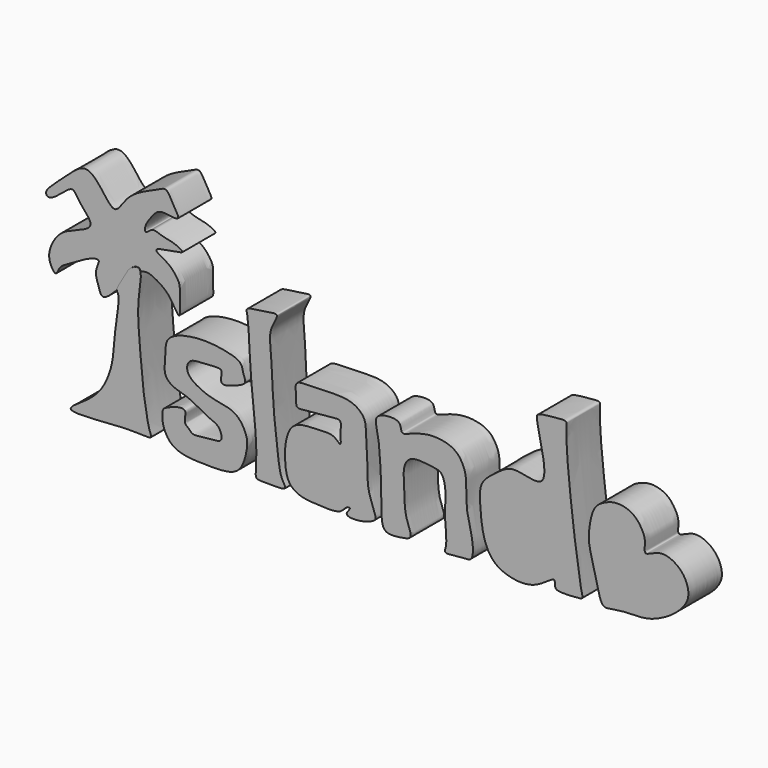
from build123d import *

# Parameters (mm, degrees)
F1_DEPTH = 7.00256
F3_DEPTH = 6.94536


with BuildPart() as f1:
    # F0 (on Front) → F1 (new body)
    with BuildSketch(Plane.XZ):
        with BuildLine():
            add(Edge.make_bspline(
                [(-36.1517251988, 19.9527548382), (-35.6897076713, 20.3593368605), (-33.8703145062, 21.1885151566), (-35.0607675175, 15.425998528), (-34.7363081171, 11.1344240942), (-34.2041343535, 4.2893139664), (-33.7248098844, 0.7509508697), (-33.0751908833, -2.8130985581), (-32.314117583, -4.2193821762), (-36.3887935859, -3.4614617292), (-48.8265701207, -5.1280409517), (-43.3805494244, -1.8917147228), (-40.8559296989, 0.3585023376), (-39.2863859033, 4.1539288786), (-38.9402390536, 7.0009509587), (-38.6831407742, 10.8140669104), (-37.8381283501, 15.4349002535), (-38.75188743, 15.9792794621), (-37.2077605506, 18.1748205384), (-36.711965086, 19.4597357366), (-36.1517251988, 19.9527548382)],
                knots=[0, 0, 0, 0, 0.0371555742, 0.1000640054, 0.167887502, 0.2450829345, 0.3042500264, 0.3608843273, 0.388652327, 0.4465002367, 0.5399913459, 0.5916353721, 0.6514595482, 0.7104646309, 0.7608988487, 0.8220598288, 0.8848688944, 0.9092804781, 0.9549453571, 1, 1, 1, 1], degree=3))
        make_face()
    extrude(amount=F1_DEPTH)

    # F2 (on Front) → F3 (join)
    with BuildSketch(Plane.XZ):
        with BuildLine():
            add(Edge.make_bspline(
                [(-34.517776221, 20.0302638113), (-35.0435278721, 19.9496718123), (-36.5258557483, 20.0116647352), (-36.9177050247, 17.5537521941), (-38.2047499664, 16.2372929918), (-40.9492917815, 13.3961830106), (-41.5180956547, 15.6660045168), (-42.3205207901, 17.6327070561), (-40.8998277748, 19.8222393062), (-43.6461751967, 19.0020267989), (-46.109935297, 17.3726617898), (-48.1760350715, 16.4132959015), (-48.5892537044, 14.4559136674), (-50.0274079728, 16.7083085967), (-49.6015405696, 18.9983798375), (-47.9246795993, 21.593510193), (-45.1923089738, 22.567237218), (-42.2201646752, 23.8286074278), (-43.6896780017, 25.768682739), (-45.0204219133, 27.2082097745), (-45.8176894798, 28.8972102646), (-47.6844490438, 27.1601857388), (-49.8449216585, 25.5269753106), (-50.5531094967, 26.5724037583), (-49.1902543319, 28.0147068318), (-46.6029363538, 30.3201710375), (-43.4798261276, 33.1654839063), (-40.7122640602, 29.6068682539), (-38.7283107025, 26.8743425271), (-37.1175917219, 29.8878601544), (-34.7294264415, 31.7160341732), (-31.6415845352, 32.9354843979), (-30.0941918664, 33.8484303125), (-29.1690215474, 31.6081478318), (-27.4306467647, 29.2997682661), (-30.6463370981, 30.0867014118), (-31.8710225745, 29.6762420922), (-32.8744846882, 28.4185253733), (-33.8361248093, 26.9975982429), (-33.7101044155, 25.6988754987), (-32.5218577907, 27.1662269803), (-30.9771057387, 26.2900837149), (-28.8925167329, 26.1166611972), (-27.0235854451, 25.0286003193), (-28.5729498893, 24.9421824814), (-30.5204615397, 24.388554303), (-31.7194527001, 24.3566361468), (-32.0428712761, 23.7067244003), (-29.8252439715, 22.7937374242), (-28.7372025862, 21.5196224564), (-27.8226492161, 20.2343686043), (-27.9989477321, 18.2621060029), (-27.743957272, 14.898938831), (-28.8638425178, 16.5217260238), (-29.7083513191, 18.1219963291), (-31.3803984714, 19.4267434756), (-33.3665638961, 20.4256015254), (-34.0848991825, 20.0966191444), (-34.517776221, 20.0302638113)],
                knots=[0, 0, 0, 0, 0.0167661578, 0.0350146562, 0.0538878036, 0.0761931881, 0.0917104311, 0.111271447, 0.1274832584, 0.1447321101, 0.1681461375, 0.1874160264, 0.2012288375, 0.2181069179, 0.2380453691, 0.2597985426, 0.282285694, 0.3026709613, 0.3197262714, 0.3387527247, 0.353368684, 0.3722253027, 0.392565876, 0.4029309434, 0.4195781096, 0.4446155084, 0.4681274889, 0.4934430687, 0.5139426523, 0.533942418, 0.557087266, 0.5805855671, 0.5952439833, 0.6143727384, 0.6319249088, 0.6510979069, 0.6660636588, 0.6819865114, 0.6992870307, 0.7099936338, 0.72409226, 0.740177554, 0.7598880944, 0.7751433354, 0.7872379127, 0.8066063098, 0.8201323724, 0.8278520883, 0.8464965948, 0.8638142385, 0.8789107021, 0.8980931414, 0.9179979027, 0.9309092729, 0.948983619, 0.9678170197, 0.9861956026, 1, 1, 1, 1], degree=3))
        make_face()
    extrude(amount=F3_DEPTH)


with BuildPart() as f1b:
    # F0 (on Front) → F1, piece 2 (new body)
    with BuildSketch(Plane.XZ):
        with BuildLine():
            add(Edge.make_bspline(
                [(-26.3890568167, -0.463387667), (-26.5798991378, -0.2944835375), (-27.0880622653, -0.079326431), (-27.0858652986, 0.9128124248), (-26.7633932354, 2.1735413059), (-28.3391129297, 2.2078374262), (-30.2296858977, 1.3713509222), (-30.8293104708, 0.9900299154), (-30.9351845711, -1.133588519), (-29.6236158953, -3.8743861817), (-26.8939060521, -4.8065411418), (-23.1613573432, -4.8750494371), (-19.258587347, -4.8534588129), (-17.3753757121, -3.3756469893), (-16.6370941419, -0.4170186309), (-16.5210335456, 1.5278543546), (-18.2736264719, 4.6636685989), (-21.5966253676, 5.0135071255), (-24.2906625978, 5.7728997126), (-27.0297006416, 7.5164790199), (-26.431480956, 9.9350064663), (-23.9334296312, 9.8736106296), (-21.3256794846, 10.1962223984), (-20.7493214149, 9.7498963354), (-21.4048677517, 7.3895204759), (-18.7811944267, 8.3527209558), (-16.5319301048, 9.1753140066), (-17.4147659745, 10.6059708206), (-17.44075539, 12.2269014699), (-20.2241829698, 13.0320422633), (-23.7743858921, 13.4928763023), (-27.7087912086, 13.0117537954), (-30.3640394159, 11.6086787433), (-30.2084613563, 9.0722310572), (-30.7569407138, 5.9936928037), (-28.6903366217, 4.5740446133), (-26.2619108503, 4.185688864), (-23.5080155182, 2.2711075921), (-21.273506284, 1.7117271819), (-20.815093773, 0.0137660443), (-21.1642516828, -0.8534879511), (-23.6376828982, -0.7404582743), (-25.7908655577, -1.3276189837), (-26.1817727682, -0.6468434726), (-26.3890568167, -0.463387667)],
                knots=[0, 0, 0, 0, 0.0140139271, 0.0299000515, 0.0465262341, 0.0646606681, 0.0886707817, 0.1016724983, 0.1243731152, 0.1525225706, 0.1794659913, 0.21178913, 0.243946201, 0.2682502839, 0.2961577554, 0.3194051409, 0.3487440375, 0.377976075, 0.4063095162, 0.4343289061, 0.4558550322, 0.4811669168, 0.5077015788, 0.5196245168, 0.5405996068, 0.5642211273, 0.5882993871, 0.606609929, 0.6262425574, 0.6523464281, 0.6843468695, 0.7173780368, 0.7438469618, 0.7690707747, 0.7972078384, 0.8210769864, 0.8470669527, 0.8772429939, 0.9016508871, 0.9216837731, 0.9353103257, 0.9607117819, 0.9847787245, 1, 1, 1, 1], degree=3))
        make_face()
    extrude(amount=F1_DEPTH)


with BuildPart() as f1c:
    # F0 (on Front) → F1, piece 3 (new body)
    with BuildSketch(Plane.XZ):
        with BuildLine():
            add(Edge.make_bspline(
                [(-11.6750150919, 21.0061557591), (-11.5272935923, 20.7009123593), (-13.162453115, 18.5961963562), (-12.5030827646, 14.5731602186), (-12.3601063727, 7.3320394966), (-11.5741090964, 1.6222786359), (-11.1817770176, -2.6628967878), (-9.8123150739, -4.1909337286), (-11.8942743308, -4.2738467977), (-14.6308324394, -4.3025744451), (-15.4049156617, -3.9825128168), (-14.7777780185, -0.0765790415), (-15.9575040529, 8.8023299459), (-16.2862424554, 15.1290079542), (-16.4819544503, 19.3139105522), (-17.0073561431, 20.620469394), (-13.7458825732, 20.7857232983), (-11.8123974807, 21.2900350017), (-11.6750150919, 21.0061557591)],
                knots=[0, 0, 0, 0, 0.0520846431, 0.1225217107, 0.2151053386, 0.2998469742, 0.3705040587, 0.4090885567, 0.4512149759, 0.5098187822, 0.5350310948, 0.5976802701, 0.7027754783, 0.7923920038, 0.8605742745, 0.8918973939, 0.9515607904, 1, 1, 1, 1], degree=3))
        make_face()
    extrude(amount=F1_DEPTH)


with BuildPart() as f1d:
    # F0 (on Front) → F1, piece 4 (new body)
    with BuildSketch(Plane.XZ):
        with BuildLine():
            add(Edge.make_bspline(
                [(-8.3898045123, 12.0296664536), (-8.6875525617, 11.6276731574), (-8.2748729778, 10.0755227999), (-8.6500740759, 8.2317413191), (-6.5052586315, 8.7351508389), (-3.4202336676, 8.747265068), (-0.6604912576, 9.3451217333), (-1.1906493937, 7.3124647248), (-0.7771319081, 4.848625774), (-2.1476051762, 6.629840905), (-4.5066657941, 6.3784435288), (-6.9211921801, 6.4080086128), (-9.337562509, 5.760163528), (-10.3168796178, 2.8866632836), (-10.3656774234, 0.072892853), (-9.9480334601, -3.2554877153), (-7.4210654019, -4.57632932), (-4.5846990768, -4.6555826449), (-0.9197556332, -4.8418890102), (-0.2429872233, -3.4005548837), (0.9448869714, -3.2503806018), (-0.5575771824, -4.6172388257), (1.3617412981, -4.9458268691), (3.5193790507, -4.5154929327), (4.79408193, -3.8708835645), (4.9134620737, -3.1414549628), (3.3566005683, 0.2081523611), (3.5631294351, 3.7345391656), (3.1519626982, 8.1696046553), (3.2583471457, 10.6499881457), (0.9727631039, 12.55451615), (-2.6459412718, 12.5901754504), (-6.1035681298, 12.3362674851), (-8.0861963291, 12.4395715882), (-8.3898045123, 12.0296664536)],
                knots=[0, 0, 0, 0, 0.029614969, 0.0548155909, 0.0811460112, 0.1205735564, 0.1508653205, 0.1779799825, 0.2054525013, 0.2287537855, 0.2610790431, 0.2942875848, 0.3257244383, 0.3604370196, 0.3965777319, 0.4335272286, 0.4665670196, 0.5030782945, 0.5417248456, 0.5667538671, 0.5822143387, 0.6043498437, 0.6274940607, 0.6606028071, 0.6841944087, 0.6999445251, 0.7387095, 0.779898847, 0.8239422116, 0.8560278559, 0.8894165747, 0.9291475671, 0.9698021634, 1, 1, 1, 1], degree=3))
        make_face()
    extrude(amount=F1_DEPTH)


with BuildPart() as f1e:
    # F0 (on Front) → F1, piece 5 (new body)
    with BuildSketch(Plane.XZ):
        with BuildLine():
            add(Edge.make_bspline(
                [(5.2137421444, 11.6132311523), (4.5935471416, 11.0696708887), (5.6118248097, 8.5527579125), (5.795910902, 0.0682520561), (5.7749751829, -3.358909184), (6.3250577016, -5.3615996636), (9.3788128505, -4.9584248015), (11.2118357605, -4.5051160749), (9.6483541876, -1.7155229047), (9.6938658083, 2.0930158429), (9.3045642412, 5.6778103672), (10.7682462506, 7.6991755863), (14.2240209287, 7.1285062224), (16.104757247, 7.0180889921), (16.672056741, 3.9290347601), (16.2873892777, 1.1818781019), (16.6319162266, -1.5325481004), (16.7070556461, -3.8485112312), (16.0844410526, -5.1145972515), (19.3183797168, -4.4150306679), (21.236599128, -4.7369533827), (21.0810885041, -0.8813740969), (19.8378031572, 2.5649285555), (20.0933952775, 7.2508692126), (19.55555841, 9.0026695296), (18.3395722176, 11.0357841657), (15.3636352763, 11.8363653509), (12.7416165569, 11.5923287383), (10.5340525262, 10.8071267986), (9.2222838515, 10.2522470954), (9.0553964398, 11.2107117881), (8.7254000773, 12.4508216947), (5.8808444258, 12.1979025707), (5.2137421444, 11.6132311523)],
                knots=[0, 0, 0, 0, 0.034096432, 0.0943296707, 0.1326558482, 0.1576008377, 0.191697264, 0.2155953456, 0.2476317263, 0.2886913582, 0.3267514262, 0.3554710288, 0.392258056, 0.418355117, 0.4515951261, 0.4862547307, 0.5201080366, 0.551287653, 0.5687670839, 0.602321538, 0.6280427084, 0.6632580324, 0.7044065784, 0.7474210216, 0.7747866758, 0.8045242068, 0.8392425498, 0.8725294314, 0.9041604932, 0.9253402726, 0.942378169, 0.9633247488, 1, 1, 1, 1], degree=3))
        make_face()
    extrude(amount=F1_DEPTH)


with BuildPart() as f1f:
    # F0 (on Front) → F1, piece 6 (new body)
    with BuildSketch(Plane.XZ):
        with BuildLine():
            add(Edge.make_bspline(
                [(32.7227525413, 11.1732082441), (33.7544283651, 12.6614334108), (31.325165626, 20.0431575243), (32.1454257883, 20.8564099381), (35.3532316753, 21.1189215976), (37.0006593396, 21.2849149265), (36.1971098113, 18.7154084331), (38.9220413046, -2.7542668594), (39.6184510612, -4.156270949), (37.855188165, -4.2936424979), (35.4551209536, -4.4112045122), (34.7148512923, -4.002242618), (35.0143659572, -1.9969487279), (31.6097423428, -5.3389422102), (27.0689017317, -5.0225040762), (24.0717482203, -3.4336404554), (22.6468345219, 0.0305939922), (22.3486127311, 3.7761020665), (22.0571990826, 7.6646751755), (25.0942756313, 9.7214362693), (27.8214740371, 12.052687431), (31.9837799311, 10.1072167664), (32.7227525413, 11.1732082441)],
                knots=[0, 0, 0, 0, 0.0825358488, 0.1091939516, 0.1589082793, 0.189527141, 0.2302582035, 0.3609565706, 0.3897984557, 0.4229021951, 0.4670123929, 0.4902604816, 0.5180141675, 0.5689727581, 0.6290365805, 0.6785703165, 0.7305811811, 0.7855338728, 0.8379449689, 0.8886739016, 0.9408809141, 1, 1, 1, 1], degree=3))
        make_face()
    extrude(amount=F1_DEPTH)


with BuildPart() as f1g:
    # F0 (on Front) → F1, piece 7 (new body)
    with BuildSketch(Plane.XZ):
        with BuildLine():
            add(Edge.make_bspline(
                [(49.9420389533, 6.0539608821), (50.2259991712, 5.8611429469), (51.8705524421, 6.9790807615), (53.9262447362, 6.8415489574), (55.8226609321, 5.6402417919), (56.9618201172, 3.9412519881), (57.3179134989, 1.7578986476), (56.1379200995, -0.0779579491), (54.5832354386, -1.5079835835), (52.5580149739, -2.7152239407), (50.0406308107, -3.7365977747), (47.0554332041, -3.631695342), (44.3222450332, -3.9934697227), (42.6199448223, -4.3865490989), (41.8988506992, -1.3358868917), (41.0202137412, 2.149418573), (40.3456030609, 4.7665871544), (40.6093995234, 7.4225123486), (41.2909909908, 10.2309414112), (43.2197732009, 11.4007962655), (45.4143166271, 12.0831510381), (48.1564883729, 11.2368380285), (49.4466723395, 9.2834588494), (50.0259675541, 7.8259995863), (49.6836458512, 6.2294179401), (49.9420389533, 6.0539608821)],
                knots=[0, 0, 0, 0, 0.039627693, 0.0815347324, 0.123364423, 0.1640072662, 0.2051248093, 0.2462822035, 0.2878319224, 0.3316318116, 0.3783812989, 0.428243893, 0.4762671143, 0.5089729367, 0.5556258329, 0.6117351505, 0.6584131475, 0.705119781, 0.7526348884, 0.7940838816, 0.8370124897, 0.8840166855, 0.9266615084, 0.9639402921, 1, 1, 1, 1], degree=3))
        make_face()
    extrude(amount=F1_DEPTH)


solid = Compound([f1.part, f1b.part, f1c.part, f1d.part, f1e.part, f1f.part, f1g.part])
